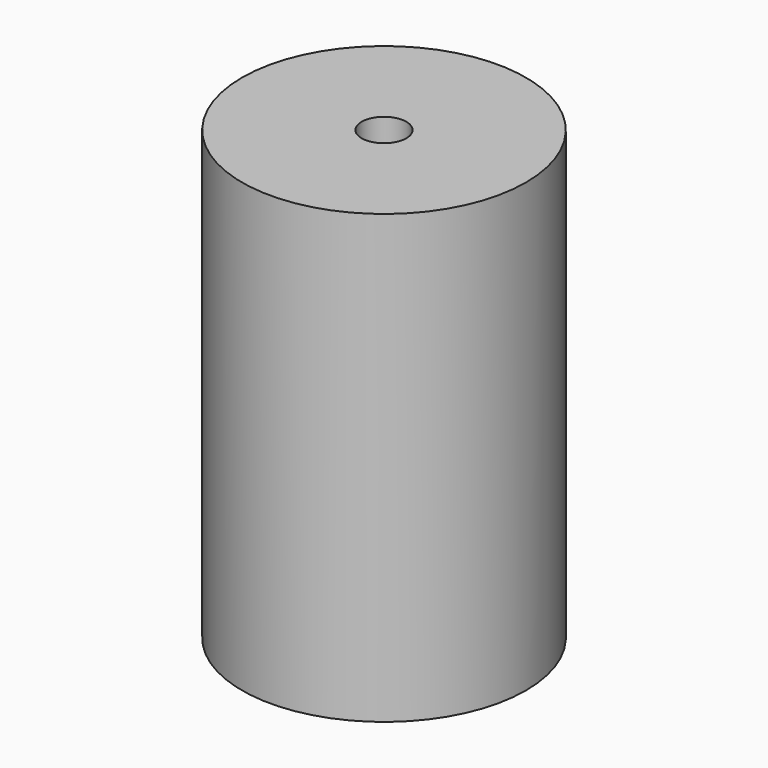
from build123d import *

# Parameters (mm, degrees)
F0_R     = 15.875
F1_DEPTH = 50
F2_R     = 2.5
F3_DEPTH = 10
F4_R     = 1.25
F5_DEPTH = 5


with BuildPart() as f1:
    # F0 (on Top) → F1 (new body)
    with BuildSketch(Plane.XY):
        Circle(F0_R)
    extrude(amount=F1_DEPTH)

    # F2 (on face) → F3 (cut)
    with BuildSketch(Plane.XY.offset(50)):
        Circle(F2_R)
    extrude(amount=-F3_DEPTH, mode=Mode.SUBTRACT)

    # F4 (on face) → F5 (cut)
    with BuildSketch(Plane(origin=(0, 0, 0), x_dir=(1, 0, 0), z_dir=(0, 0, -1))):
        with Locations((10, 0)):
            Circle(F4_R)
        with Locations((-10, 0)):
            Circle(F4_R)
    extrude(amount=-F5_DEPTH, mode=Mode.SUBTRACT)


solid = f1.part
